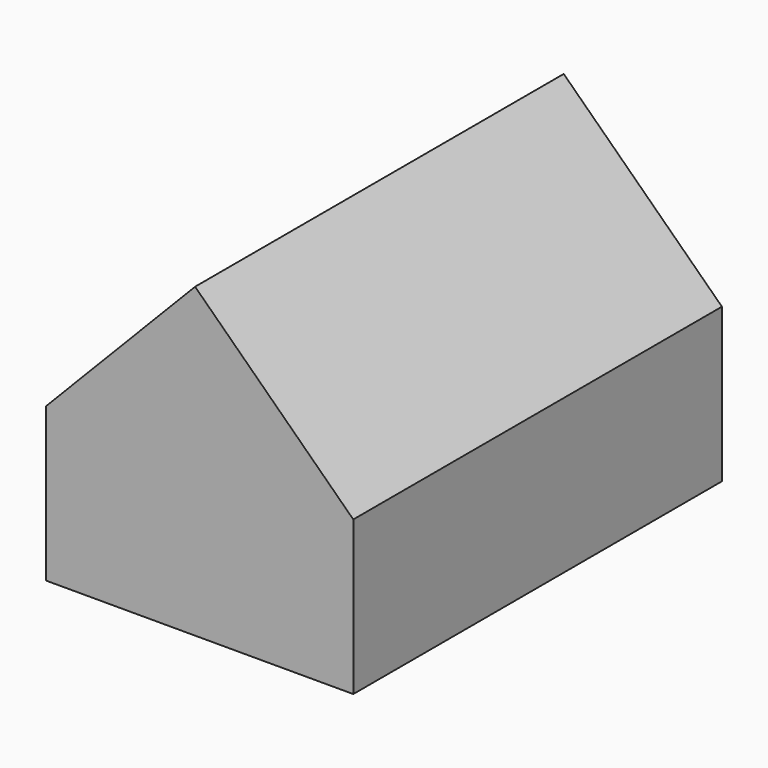
from build123d import *

# Parameters (mm, degrees)
F0_W     = 80
F0_H     = 80
F1_DEPTH = 120
F3_DEPTH = 120.001


with BuildPart() as f1:
    # F0 (on Front) → F1 (new body)
    with BuildSketch(Plane.XZ):
        with Locations((1.195194, 13.875211)):
            Rectangle(F0_W, F0_H)
    extrude(amount=F1_DEPTH)

    # F2 (on face) → F3 (cut, through all)
    with BuildSketch(Plane.XZ.offset(120)):
        Polygon((-38.804806, 53.875211), (-38.804806, 13.875211), (0, 53.875211), align=None)
        Polygon((41.195194, 53.875211), (0, 53.875211), (41.195194, 13.910924), align=None)
    extrude(amount=-F3_DEPTH, mode=Mode.SUBTRACT)


solid = f1.part
